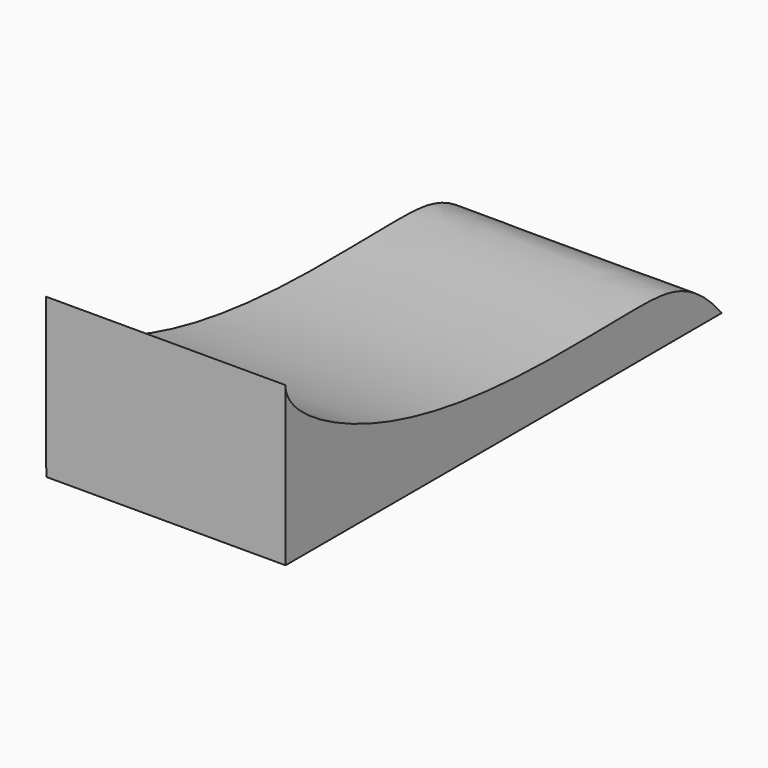
from build123d import *

# Parameters (mm, degrees)
F1_DEPTH = 50.8


with BuildPart() as f1:
    # F0 (on Right) → F1 (new body)
    with BuildSketch(Plane.YZ):
        with BuildLine():
            Line((-54.9858123497, 5.5826849692), (-54.9383847614, -28.1238146126))
            Line((-54.9383847614, -28.1238146126), (-45.4124028305, -28.1238146126))
            Line((-45.4124028305, -28.1238146126), (-20.600028882, -28.1238146126))
            Line((-20.600028882, -28.1238146126), (13.8251595199, -28.1238146126))
            Line((13.8251595199, -28.1238146126), (54.8393946884, -28.0269477854))
            Line((54.8393946884, -28.0269477854), (60.8432676721, -28.0269477854))
            add(Edge.make_bspline(
                [(60.8432676721, -28.0269477854), (53.0341802995, -18.7422685253), (40.4707453124, -17.4205410598), (11.0619165325, -18.9565437887), (-30.3133392645, -14.8597245021), (-54.9779570907, 0), (-54.9858123497, 5.5826849692)],
                knots=[0, 0, 0, 0, 0.2183522281, 0.456893225, 0.7613900467, 1, 1, 1, 1], degree=3))
        make_face()
    extrude(amount=F1_DEPTH)


solid = f1.part
